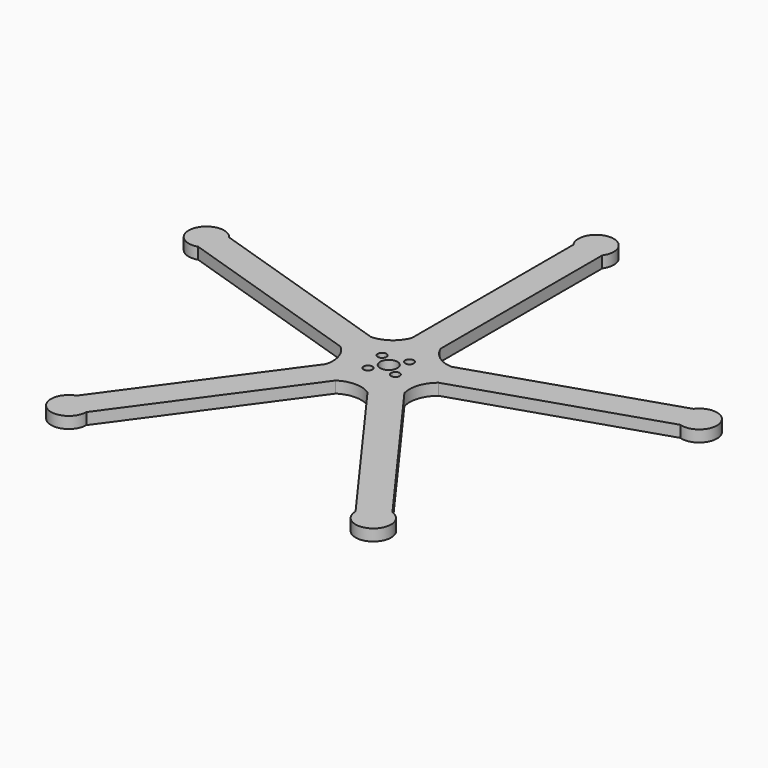
from build123d import *

# Parameters (mm, degrees)
F0_R     = 1.905
F0_R_2   = 3.81
F1_DEPTH = 5.08


with BuildPart() as f1:
    # F0 (on Top) → F1 (new body)
    with BuildSketch(Plane.XY):
        with BuildLine():
            ThreePointArc((-6.35, 24.901362), (-10.804149, 19.10083), (-17.697191, 16.657146))
            Line((-17.697191, 16.657146), (-102.246115, 44.128757))
            ThreePointArc((-102.246115, 44.128757), (-115.956738, 41.906823), (-106.170631, 32.050339))
            Line((-106.170631, 32.050339), (-21.621706, 4.578728))
            ThreePointArc((-21.621706, 4.578728), (-17.48148, -1.449882), (-17.287465, -8.760695))
            Line((-17.287465, -8.760695), (-69.541574, -80.682305))
            ThreePointArc((-69.541574, -80.682305), (-71.665205, -94.408498), (-59.267058, -88.147178))
            Line((-59.267058, -88.147178), (-7.01295, -16.225567))
            ThreePointArc((-7.01295, -16.225567), (0, -14.150921), (7.01295, -16.225567))
            Line((7.01295, -16.225567), (59.267058, -88.147178))
            ThreePointArc((59.267058, -88.147178), (71.665205, -94.408498), (69.541574, -80.682305))
            Line((69.541574, -80.682305), (17.287465, -8.760695))
            ThreePointArc((17.287465, -8.760695), (17.48148, -1.449882), (21.621706, 4.578728))
            Line((21.621706, 4.578728), (106.170631, 32.050339))
            ThreePointArc((106.170631, 32.050339), (115.956738, 41.906823), (102.246115, 44.128757))
            Line((102.246115, 44.128757), (17.697191, 16.657146))
            ThreePointArc((17.697191, 16.657146), (10.804149, 19.10083), (6.35, 24.901362))
            Line((6.35, 24.901362), (6.35, 113.801362))
            ThreePointArc((6.35, 113.801362), (0, 126.154324), (-6.35, 113.801362))
            Line((-6.35, 113.801362), (-6.35, 24.901362))
        make_face()
        with Locations((-4.141972, -2.013932)):
            Circle(F0_R, mode=Mode.SUBTRACT)
        with Locations((0, 4.230195)):
            Circle(F0_R_2, mode=Mode.SUBTRACT)
        with Locations((-6.244127, 8.372167)):
            Circle(F0_R, mode=Mode.SUBTRACT)
        with Locations((6.244127, 0.088223)):
            Circle(F0_R, mode=Mode.SUBTRACT)
        with Locations((4.141972, 10.474322)):
            Circle(F0_R, mode=Mode.SUBTRACT)
    extrude(amount=F1_DEPTH)


solid = f1.part
